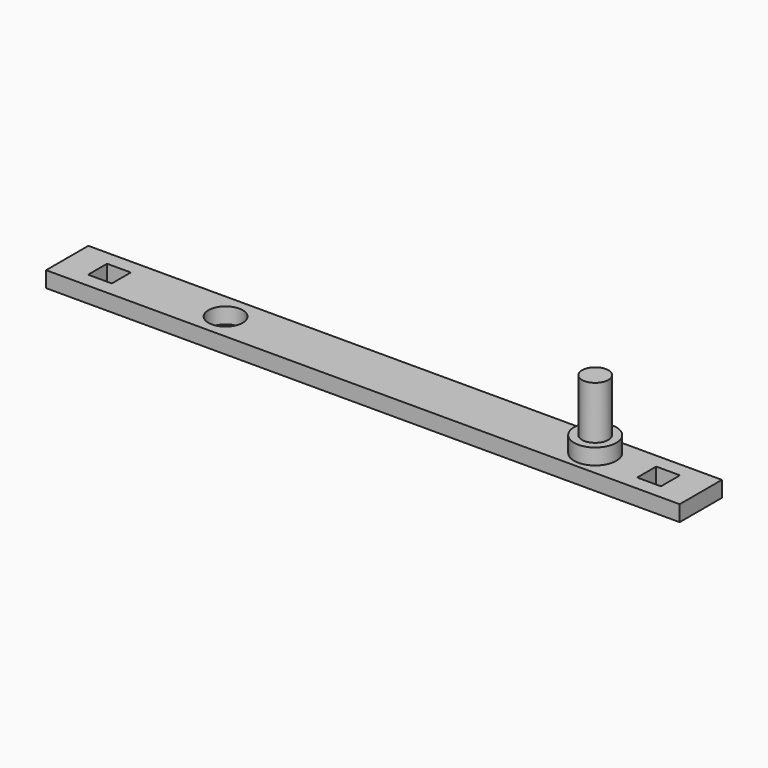
from build123d import *

# Parameters (mm, degrees)
F0_W     = 120
F0_H     = 10
F0_W_2   = 4.5
F0_H_2   = 4.5
F0_R     = 3.25
F1_DEPTH = 3
F2_R     = 4
F3_DEPTH = 3
F4_R     = 2.5
F5_DEPTH = 10


with BuildPart() as f1:
    # F0 (on Top) → F1 (new body)
    with BuildSketch(Plane.XY):
        Rectangle(F0_W, F0_H)
        with Locations((-52, 0)):
            Rectangle(F0_W_2, F0_H_2, mode=Mode.SUBTRACT)
        with Locations((-30, 0)):
            Circle(F0_R, mode=Mode.SUBTRACT)
        with Locations((52, 0)):
            Rectangle(F0_W_2, F0_H_2, mode=Mode.SUBTRACT)
    extrude(amount=F1_DEPTH)

    # F2 (on face) → F3 (join)
    with BuildSketch(Plane.XY.offset(3)):
        with Locations((40, 0)):
            Circle(F2_R)
    extrude(amount=F3_DEPTH)

    # F4 (on face) → F5 (join)
    with BuildSketch(Plane.XY.offset(6)):
        with Locations((40, 0)):
            Circle(F4_R)
    extrude(amount=F5_DEPTH)


solid = f1.part
